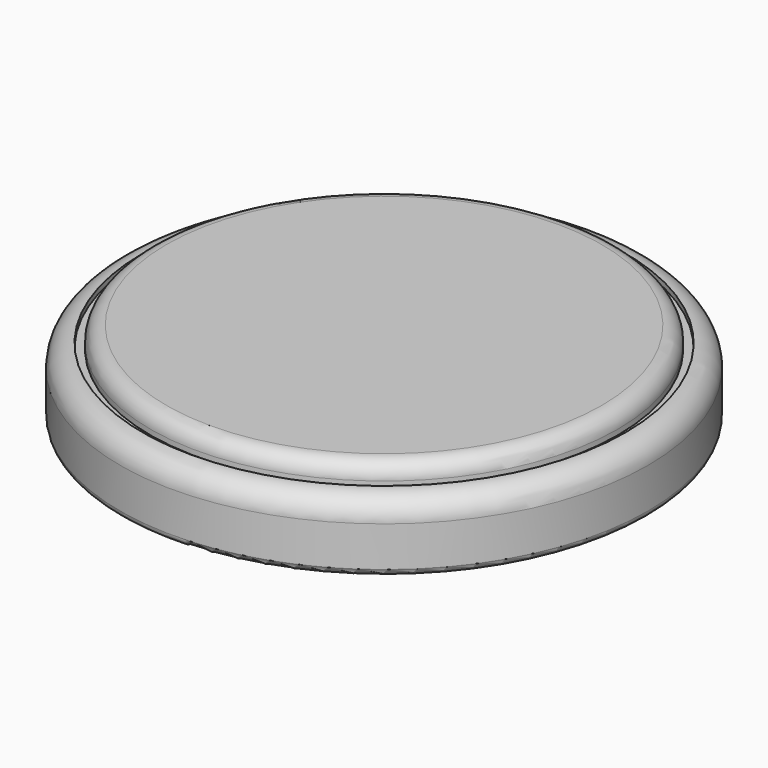
from build123d import *

# Parameters (mm, degrees)
CYLINDER002_R     = 9.16
CYLINDER002_DEPTH = 18
CYLINDER_R        = 10
CYLINDER_DEPTH    = 2.6
CYLINDER001_R     = 8.85
CYLINDER001_DEPTH = 3
FILLET_1_R        = 0.83
FILLET_2_R        = 0.6
FILLET_3_R        = 0.25
CYLINDER003_R     = 9.16
CYLINDER003_DEPTH = 0.2


with BuildPart() as inside_cut:
    # Cylinder002 → Cylinder002 (new body)
    with BuildSketch(Plane.XY.offset(2)):
        Circle(CYLINDER002_R)
    extrude(amount=CYLINDER002_DEPTH)


with BuildPart() as cut:
    # Cylinder → Cylinder (new body)
    with BuildSketch(Plane.XY):
        Circle(CYLINDER_R)
    extrude(amount=CYLINDER_DEPTH)

    # Cut: cut inside_cut
    add(inside_cut.part, mode=Mode.SUBTRACT)


with BuildPart() as battery:
    # Cylinder001 → Cylinder001 (new body)
    with BuildSketch(Plane.XY.offset(0.2)):
        Circle(CYLINDER001_R)
    extrude(amount=CYLINDER001_DEPTH)

    # Fusion: union Cut
    add(cut.part)

    # Fillet 1
    fillet_1_edges = [battery.edges().sort_by_distance(p)[0] for p in [
        (-10, 0, 2.6),
    ]]
    fillet(fillet_1_edges, radius=FILLET_1_R)

    # Fillet 2
    fillet_2_edges = [battery.edges().sort_by_distance(p)[0] for p in [
        (-8.85, 0, 3.2),
    ]]
    fillet(fillet_2_edges, radius=FILLET_2_R)

    # Fillet 3
    fillet_3_edges = [battery.edges().sort_by_distance(p)[0] for p in [
        (-10, 0, 0),
    ]]
    fillet(fillet_3_edges, radius=FILLET_3_R)


with BuildPart() as battery_final:
    # Cylinder003 → Cylinder003 (new body)
    with BuildSketch(Plane.XY.offset(2.2)):
        Circle(CYLINDER003_R)
    extrude(amount=CYLINDER003_DEPTH)

    # Fusion001: union battery
    add(battery.part)


solid = battery_final.part
